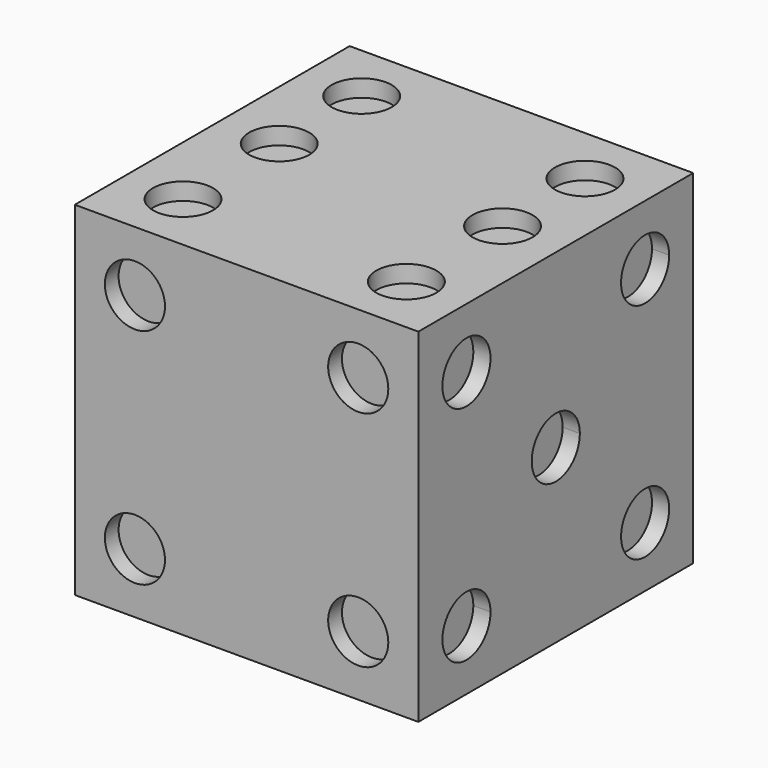
from build123d import *

# Parameters (mm, degrees)
F0_W      = 127
F0_H      = 127
F1_DEPTH  = 127
F2_R      = 11.1125
F3_DEPTH  = 6.35
F4_R      = 11.1125
F5_DEPTH  = 6.35
F6_R      = 11.1125
F7_DEPTH  = 6.35
F8_R      = 11.1125
F9_DEPTH  = 6.35
F10_R     = 11.1125
F11_DEPTH = 6.35
F12_R     = 11.1125
F13_DEPTH = 6.35


with BuildPart() as f1:
    # F0 (on Top) → F1 (new body)
    with BuildSketch(Plane.XY):
        with Locations((63.5, -63.5)):
            Rectangle(F0_W, F0_H)
    extrude(amount=F1_DEPTH)

    # F2 (on face) → F3 (cut)
    with BuildSketch(Plane(origin=(0, 0, 0), x_dir=(1, 0, 0), z_dir=(0, 0, -1))):
        with Locations((63.5, 63.5)):
            Circle(F2_R)
    extrude(amount=-F3_DEPTH, mode=Mode.SUBTRACT)

    # F4 (on face) → F5 (cut)
    with BuildSketch(Plane(origin=(0, 0, 0), x_dir=(0, -1, 0), z_dir=(-1, 0, 0))):
        with Locations((99.731132, 104.775)):
            Circle(F4_R)
        with Locations((22.225, 22.225)):
            Circle(F4_R)
    extrude(amount=-F5_DEPTH, mode=Mode.SUBTRACT)

    # F6 (on face) → F7 (cut)
    with BuildSketch(Plane(origin=(0, 0, 0), x_dir=(-1, 0, 0), z_dir=(0, 1, 0))):
        with Locations((-22.225, 104.775)):
            Circle(F6_R)
        with Locations((-63.5, 63.5)):
            Circle(F6_R)
        with Locations((-104.775, 22.225)):
            Circle(F6_R)
    extrude(amount=-F7_DEPTH, mode=Mode.SUBTRACT)

    # F8 (on face) → F9 (cut)
    with BuildSketch(Plane.XY.offset(127)):
        with Locations((22.225, -22.225)):
            Circle(F8_R)
        with Locations((22.225, -60.325)):
            Circle(F8_R)
        with Locations((22.225, -104.775)):
            Circle(F8_R)
        with Locations((104.775, -60.325)):
            Circle(F8_R)
        with Locations((104.775, -104.775)):
            Circle(F8_R)
        with Locations((104.775, -22.225)):
            Circle(F8_R)
    extrude(amount=-F9_DEPTH, mode=Mode.SUBTRACT)

    # F10 (on face) → F11 (cut)
    with BuildSketch(Plane.XZ.offset(127)):
        with Locations((104.775, 22.225)):
            Circle(F10_R)
        with Locations((104.775, 104.775)):
            Circle(F10_R)
        with Locations((22.225, 104.775)):
            Circle(F10_R)
        with Locations((22.225, 22.225)):
            Circle(F10_R)
    extrude(amount=-F11_DEPTH, mode=Mode.SUBTRACT)

    # F12 (on face) → F13 (cut)
    with BuildSketch(Plane.YZ.offset(127)):
        with BuildLine():
            ThreePointArc((-11.1125, 104.775), (-11.958389, 109.02757), (-14.367276, 112.632724))
            Line((-14.367276, 112.632724), (-30.082724, 96.917276))
            ThreePointArc((-30.082724, 96.917276), (-17.97243, 94.508389), (-11.1125, 104.775))
        make_face()
        with BuildLine():
            ThreePointArc((-93.6625, 22.225), (-94.508389, 26.47757), (-96.917276, 30.082724))
            Line((-96.917276, 30.082724), (-112.632724, 14.367276))
            ThreePointArc((-112.632724, 14.367276), (-100.52243, 11.958389), (-93.6625, 22.225))
        make_face()
        with BuildLine():
            Line((-112.632724, 14.367276), (-96.917276, 30.082724))
            ThreePointArc((-96.917276, 30.082724), (-112.632724, 30.082724), (-112.632724, 14.367276))
        make_face()
        with BuildLine():
            ThreePointArc((-52.3875, 63.5), (-53.233389, 67.75257), (-55.642276, 71.357724))
            Line((-55.642276, 71.357724), (-71.357724, 55.642276))
            ThreePointArc((-71.357724, 55.642276), (-59.24743, 53.233389), (-52.3875, 63.5))
        make_face()
        with BuildLine():
            Line((-71.357724, 55.642276), (-55.642276, 71.357724))
            ThreePointArc((-55.642276, 71.357724), (-71.357724, 71.357724), (-71.357724, 55.642276))
        make_face()
        with BuildLine():
            Line((-30.082724, 96.917276), (-14.367276, 112.632724))
            ThreePointArc((-14.367276, 112.632724), (-30.082724, 112.632724), (-30.082724, 96.917276))
        make_face()
        with Locations((-22.225, 22.225)):
            Circle(F12_R)
        with Locations((-104.775, 104.775)):
            Circle(F12_R)
    extrude(amount=-F13_DEPTH, mode=Mode.SUBTRACT)


solid = f1.part
